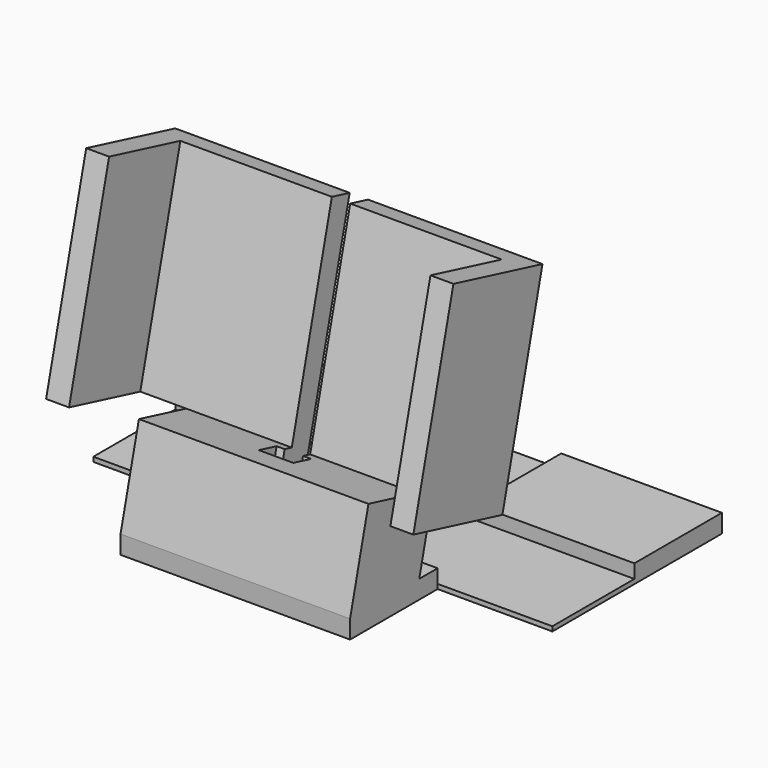
from build123d import *

# Parameters (mm, degrees)
F1_DEPTH  = 1
F0_W      = 50
F0_H      = 23.8363201171
F0_W_2    = 35
F2_DEPTH  = 4
F3_W      = 50
F3_H      = 5
F3_H_2    = 13.8363201171
F4_DEPTH  = 20
F6_DEPTH  = 50
F7_W      = 4
F7_H      = 10
F7_H_2    = 6.0470494551
F8_DEPTH  = 12
F9_START  = -7
F7_W_2    = 1.75
F9_DEPTH  = 5
F10_W     = 23
F10_H     = 5
F11_DEPTH = 45


with BuildPart() as f1:
    # F0 (on Top) → F1 (new body)
    with BuildSketch(Plane.XY):
        Polygon((-50, 46.1636798829), (-50, 23.8363201171), (-25, 23.8363201171), (25, 23.8363201171), (50, 23.8363201171), (50, 46.1636798829), (15, 46.1636798829), (15, 70), (-15, 70), (-15, 46.1636798829), align=None)
    extrude(amount=F1_DEPTH)

    # F0 (on Top) → F2 (join)
    with BuildSketch(Plane.XY):
        with Locations((0, 11.9181600586)):
            Rectangle(F0_W, F0_H)
        with Locations((32.5, 58.0818399414)):
            Rectangle(F0_W_2, F0_H)
        with Locations((-32.5, 58.0818399414)):
            Rectangle(F0_W_2, F0_H)
    extrude(amount=F2_DEPTH)

    # F3 (on face) → F4 (join)
    with BuildSketch(Plane.XY.offset(4)):
        with Locations((0, 21.3363201171)):
            Rectangle(F3_W, F3_H)
        with Locations((0, 11.9181600586)):
            Rectangle(F3_W, F3_H_2)
        with Locations((0, 2.5)):
            Rectangle(F3_W, F3_H)
    extrude(amount=F4_DEPTH)

    # F5 (on face) → F6 (cut)
    with BuildSketch(Plane.YZ.offset(25)):
        Polygon((0, 24), (0, 4), (5, 24), align=None)
        Polygon((22.7283012867, 19.5679246783), (18.8363201171, 4), (23.8363201171, 4), (23.8363201171, 24), align=None)
        Polygon((23.8363201171, 24), (5, 24), (22.7283012867, 19.5679246783), align=None)
    extrude(amount=-F6_DEPTH, mode=Mode.SUBTRACT)

    # F7 (on face) → F8 (cut)
    with BuildSketch(Plane(origin=(0, 16.7871248161, -4.196781204), x_dir=(-1, 0, 0), z_dir=(0, 0.9701425001, -0.242535625))):
        with Locations((0, 19.4960981287)):
            Rectangle(F7_W, F7_H)
        with Locations((0, 11.4725734011)):
            Rectangle(F7_W, F7_H_2)
    extrude(amount=-F8_DEPTH, mode=Mode.SUBTRACT)

    # F7 (on face) → F9 (cut)
    with BuildSketch(Plane(origin=(0, 16.7871248161, -4.196781204), x_dir=(-1, 0, 0), z_dir=(0, 0.9701425001, -0.242535625)).offset(F9_START)):
        with Locations((2.875, 19.4960981287)):
            Rectangle(F7_W_2, F7_H)
        with Locations((-2.875, 19.4960981287)):
            Rectangle(F7_W_2, F7_H)
    extrude(amount=-F9_DEPTH, mode=Mode.SUBTRACT)

    # F10 (on face) → F11 (join)
    with BuildSketch(Plane(origin=(0, 5.9411764706, 23.7647058824), x_dir=(1, 0, 0), z_dir=(0, 0.242535625, 0.9701425001))):
        Polygon((40, 17.3037721918), (25, 17.3037721918), (25, 12.3037721918), (35, 12.3037721918), (35, -7.6962278082), (40, -7.6962278082), align=None)
        with Locations((13.5, 14.8037721918)):
            Rectangle(F10_W, F10_H)
        with Locations((-13.5, 14.8037721918)):
            Rectangle(F10_W, F10_H)
        Polygon((-25, 17.3037721918), (-40, 17.3037721918), (-40, -7.6962278082), (-35, -7.6962278082), (-35, 12.3037721918), (-25, 12.3037721918), align=None)
    extrude(amount=F11_DEPTH)


solid = f1.part
